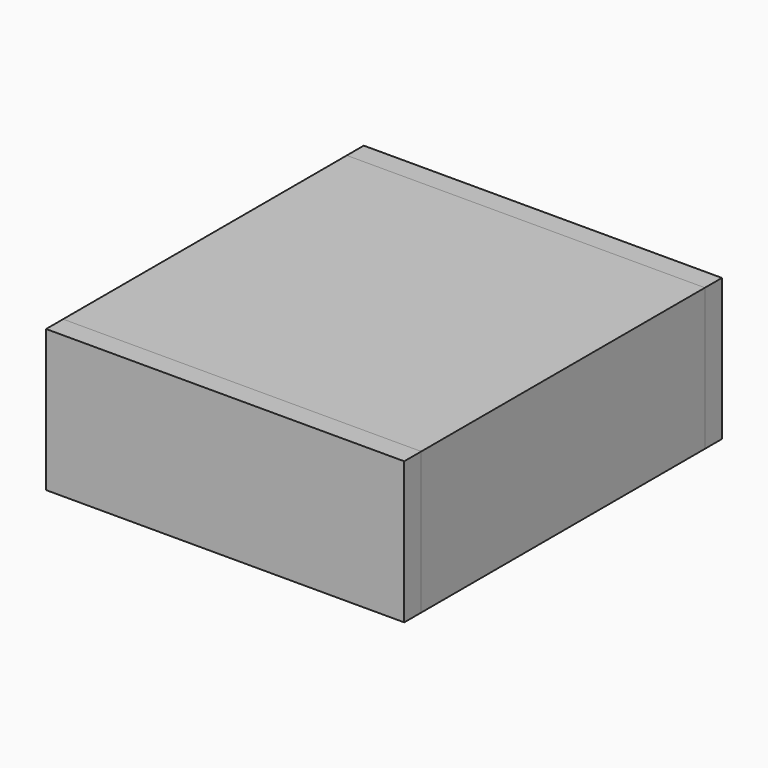
from build123d import *

# Parameters (mm, degrees)
F0_W     = 101
F0_H     = 40
F1_DEPTH = 6
F2_W     = 101
F2_H     = 40
F2_W_2   = 89
F2_H_2   = 28
F3_DEPTH = 100


with BuildPart() as f1:
    # F0 (on Front) → F1 (new body)
    with BuildSketch(Plane.XZ):
        Rectangle(F0_W, F0_H)
    extrude(amount=F1_DEPTH)


with BuildPart() as f3:
    # F2 (on face) → F3 (new body)
    with BuildSketch(Plane.XZ.offset(6)):
        Rectangle(F2_W, F2_H)
        Rectangle(F2_W_2, F2_H_2, mode=Mode.SUBTRACT)
    extrude(amount=F3_DEPTH)


with BuildPart() as f4_1:
    # F4: copy of F1
    add(f1.part.moved(Location((0, -106, 0))))


solid = Compound([f1.part, f3.part, f4_1.part])
